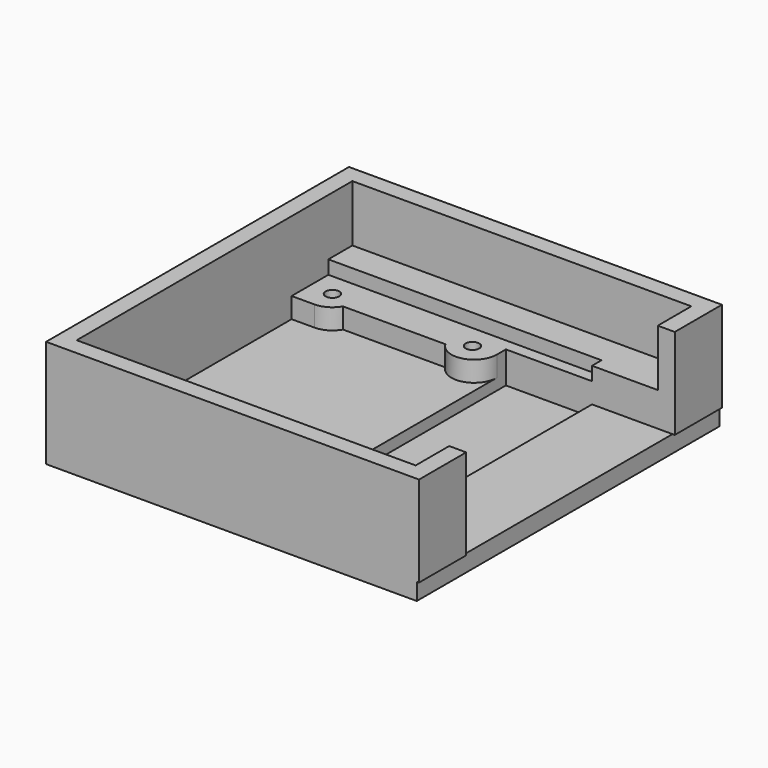
from build123d import *

# Parameters (mm, degrees)
RECTANGLE077_W         = 0.2
RECTANGLE077_H         = 33.4
EXTRUDE207_DEPTH       = 1.5
RECTANGLE072_W         = 32.9
RECTANGLE072_H         = 33.4
EXTRUDE172_DEPTH       = 0.5
CIRCLE037_R            = 0.6
EXTRUDE166_DEPTH       = 2.8
CIRCLE036_R            = 0.6
EXTRUDE163_DEPTH       = 2.8
CIRCLE038_R            = 0.6
EXTRUDE165_DEPTH       = 2.8
CIRCLE040_R            = 0.65
EXTRUDE167_DEPTH       = 10
CIRCLE018_R            = 2
EXTRUDE155_DEPTH       = 2.1
RECTANGLE065_W         = 2
RECTANGLE065_H         = 1
EXTRUDE156_DEPTH       = 2.1
RECTANGLE064_W         = 2
RECTANGLE064_H         = 1
EXTRUDE153_DEPTH       = 2.1
CIRCLE019_R            = 2
EXTRUDE152_DEPTH       = 2.1
RECTANGLE066_W         = 1
RECTANGLE066_H         = 1
EXTRUDE150_DEPTH       = 2.1
CIRCLE020_R            = 2
EXTRUDE149_DEPTH       = 2.1
RECTANGLE070_W         = 7.6
RECTANGLE070_H         = 23
EXTRUDE162_DEPTH       = 2.8
RECTANGLE061_W         = 24.1
RECTANGLE061_H         = 25.1
EXTRUDE117_DEPTH       = 6.2
RECTANGLE063_W         = 1.5
RECTANGLE063_H         = 23
EXTRUDE128_DEPTH       = 8
RECTANGLE060_W         = 14.4
RECTANGLE060_H         = 23
EXTRUDE141_DEPTH       = 8
RECTANGLE059_W         = 15.5
RECTANGLE059_H         = 19
EXTRUDE140_DEPTH       = 8
RECTANGLE062_W         = 29.9
RECTANGLE062_H         = 30.4
EXTRUDE116_DEPTH       = 5
RECTANGLE053_W         = 32.9
RECTANGLE053_H         = 33.4
EXTRUDE107_DEPTH       = 9
RECTANGLE067_W         = 1
RECTANGLE067_H         = 1
EXTRUDE159_DEPTH       = 2.1
CIRCLE021_R            = 2
EXTRUDE158_DEPTH       = 2.1
CUT078_PLACEMENT_ANGLE = 180


with BuildPart() as extrude207:
    # Rectangle077 → Extrude207 (new body)
    with BuildSketch(Plane(origin=(50.534308, -80.765974, -19.3), x_dir=(1, 0, 0), z_dir=(0, 0, 1))):
        with Locations((0.1, 16.7)):
            Rectangle(RECTANGLE077_W, RECTANGLE077_H)
    extrude(amount=EXTRUDE207_DEPTH)


with BuildPart() as extrude172:
    # Rectangle072 (on Cut) → Extrude172 (new body)
    with BuildSketch(Plane(origin=(17.834308, -47.365974, -18.8), x_dir=(1, 0, 0), z_dir=(0, 0, -1))):
        with Locations((16.45, 16.7)):
            Rectangle(RECTANGLE072_W, RECTANGLE072_H)
    extrude(amount=EXTRUDE172_DEPTH)


with BuildPart() as extrude166:
    # Circle037 → Extrude166 (new body)
    with BuildSketch(Plane(origin=(67.748726, -53.60327, -3.6), x_dir=(1, 0, 0), z_dir=(0, 0, -1))):
        Circle(CIRCLE037_R)
    extrude(amount=-EXTRUDE166_DEPTH)


with BuildPart() as extrude163:
    # Circle036 → Extrude163 (new body)
    with BuildSketch(Plane(origin=(80.134308, -53.565974, -3.6), x_dir=(1, 0, 0), z_dir=(0, 0, 1))):
        Circle(CIRCLE036_R)
    extrude(amount=EXTRUDE163_DEPTH)


with BuildPart() as extrude165:
    # Circle038 → Extrude165 (new body)
    with BuildSketch(Plane(origin=(67.634308, -74.565974, -3.6), x_dir=(1, 0, 0), z_dir=(0, 0, 1))):
        Circle(CIRCLE038_R)
    extrude(amount=EXTRUDE165_DEPTH)


with BuildPart() as extrude167:
    # Circle040 (on Cut) → Extrude167 (new body)
    with BuildSketch(Plane(origin=(80.134308, -74.565974, -3.6), x_dir=(1, 0, 0), z_dir=(0, 0, -1))):
        Circle(CIRCLE040_R)
    extrude(amount=-EXTRUDE167_DEPTH)


with BuildPart() as extrude155:
    # Circle018 → Extrude155 (new body)
    with BuildSketch(Plane(origin=(80.134308, -53.565974, -3.6), x_dir=(1, 0, 0), z_dir=(0, 0, 1))):
        Circle(CIRCLE018_R)
    extrude(amount=EXTRUDE155_DEPTH)


with BuildPart() as fusion026:
    # Rectangle065 → Extrude156 (new body)
    with BuildSketch(Plane(origin=(80.134308, -55.565974, -3.6), x_dir=(1, 0, 0), z_dir=(0, 0, 1))):
        with Locations((1, 0.5)):
            Rectangle(RECTANGLE065_W, RECTANGLE065_H)
    extrude(amount=EXTRUDE156_DEPTH)

    # Fusion026: union Extrude155
    add(extrude155.part)


with BuildPart() as extrude153:
    # Rectangle064 → Extrude153 (new body)
    with BuildSketch(Plane(origin=(80.134308, -73.565974, -3.6), x_dir=(1, 0, 0), z_dir=(0, 0, 1))):
        with Locations((1, 0.5)):
            Rectangle(RECTANGLE064_W, RECTANGLE064_H)
    extrude(amount=EXTRUDE153_DEPTH)


with BuildPart() as fusion032:
    # Circle019 → Extrude152 (new body)
    with BuildSketch(Plane(origin=(80.134308, -74.565974, -3.6), x_dir=(1, 0, 0), z_dir=(0, 0, 1))):
        Circle(CIRCLE019_R)
    extrude(amount=EXTRUDE152_DEPTH)

    # Fusion032: union Extrude153
    add(extrude153.part)


with BuildPart() as extrude150:
    # Rectangle066 → Extrude150 (new body)
    with BuildSketch(Plane(origin=(65.634308, -75.565974, -3.6), x_dir=(1, 0, 0), z_dir=(0, 0, 1))):
        with Locations((0.5, 0.5)):
            Rectangle(RECTANGLE066_W, RECTANGLE066_H)
    extrude(amount=EXTRUDE150_DEPTH)


with BuildPart() as fusion024:
    # Circle020 → Extrude149 (new body)
    with BuildSketch(Plane(origin=(67.634308, -74.565974, -3.6), x_dir=(1, 0, 0), z_dir=(0, 0, 1))):
        Circle(CIRCLE020_R)
    extrude(amount=EXTRUDE149_DEPTH)

    # Fusion024: union Extrude150
    add(extrude150.part)


with BuildPart() as extrude162:
    # Rectangle070 → Extrude162 (new body)
    with BuildSketch(Plane(origin=(58.034308, -75.565974, -3.6), x_dir=(1, 0, 0), z_dir=(0, 0, 1))):
        with Locations((3.8, 11.5)):
            Rectangle(RECTANGLE070_W, RECTANGLE070_H)
    extrude(amount=EXTRUDE162_DEPTH)


with BuildPart() as extrude117:
    # Rectangle061 → Extrude117 (new body)
    with BuildSketch(Plane(origin=(58.034308, -51.515974, -9.8), x_dir=(1, 0, 0), z_dir=(0, 0, -1))):
        with Locations((12.05, 12.55)):
            Rectangle(RECTANGLE061_W, RECTANGLE061_H)
    extrude(amount=-EXTRUDE117_DEPTH)


with BuildPart() as extrude128:
    # Rectangle063 → Extrude128 (new body)
    with BuildSketch(Plane(origin=(50.734308, -75.565974, -9.8), x_dir=(1, 0, 0), z_dir=(0, 0, 1))):
        with Locations((0.75, 11.5)):
            Rectangle(RECTANGLE063_W, RECTANGLE063_H)
    extrude(amount=EXTRUDE128_DEPTH)


with BuildPart() as extrude141:
    # Rectangle060 → Extrude141 (new body)
    with BuildSketch(Plane(origin=(52.234308, -52.565974, -9.8), x_dir=(1, 0, 0), z_dir=(0, 0, -1))):
        with Locations((7.2, 11.5)):
            Rectangle(RECTANGLE060_W, RECTANGLE060_H)
    extrude(amount=-EXTRUDE141_DEPTH)


with BuildPart() as extrude140:
    # Rectangle059 → Extrude140 (new body)
    with BuildSketch(Plane(origin=(66.634308, -54.565974, -9.8), x_dir=(1, 0, 0), z_dir=(0, 0, -1))):
        with Locations((7.75, 9.5)):
            Rectangle(RECTANGLE059_W, RECTANGLE059_H)
    extrude(amount=-EXTRUDE140_DEPTH)


with BuildPart() as extrude116:
    # Rectangle062 → Extrude116 (new body)
    with BuildSketch(Plane(origin=(52.234308, -48.865974, -9.8), x_dir=(1, 0, 0), z_dir=(0, 0, -1))):
        with Locations((14.95, 15.2)):
            Rectangle(RECTANGLE062_W, RECTANGLE062_H)
    extrude(amount=-EXTRUDE116_DEPTH)


with BuildPart() as cut074:
    # Rectangle053 → Extrude107 (new body)
    with BuildSketch(Plane(origin=(50.734308, -47.365974, -9.8), x_dir=(1, 0, 0), z_dir=(0, 0, -1))):
        with Locations((16.45, 16.7)):
            Rectangle(RECTANGLE053_W, RECTANGLE053_H)
    extrude(amount=-EXTRUDE107_DEPTH)

    # Cut046: cut Extrude116
    add(extrude116.part, mode=Mode.SUBTRACT)

    # Cut060: cut Extrude140
    add(extrude140.part, mode=Mode.SUBTRACT)

    # Cut061: cut Extrude141
    add(extrude141.part, mode=Mode.SUBTRACT)

    # Cut062: cut Extrude128
    add(extrude128.part, mode=Mode.SUBTRACT)

    # Cut063: cut Extrude117
    add(extrude117.part, mode=Mode.SUBTRACT)

    # Cut074: cut Extrude162
    add(extrude162.part, mode=Mode.SUBTRACT)


with BuildPart() as extrude159:
    # Rectangle067 → Extrude159 (new body)
    with BuildSketch(Plane(origin=(65.634308, -53.565974, -3.6), x_dir=(1, 0, 0), z_dir=(0, 0, 1))):
        with Locations((0.5, 0.5)):
            Rectangle(RECTANGLE067_W, RECTANGLE067_H)
    extrude(amount=EXTRUDE159_DEPTH)


with BuildPart() as cut_lens_capsule:
    # Circle021 → Extrude158 (new body)
    with BuildSketch(Plane(origin=(67.634308, -53.565974, -3.6), x_dir=(1, 0, 0), z_dir=(0, 0, 1))):
        Circle(CIRCLE021_R)
    extrude(amount=EXTRUDE158_DEPTH)

    # Fusion025: union Extrude159
    add(extrude159.part)

    # Fusion033: union Fusion026, Fusion032, Fusion024, Cut074
    add(fusion026.part)
    add(fusion032.part)
    add(fusion024.part)
    add(cut074.part)

    # Cut075: cut Extrude167
    add(extrude167.part, mode=Mode.SUBTRACT)

    # Cut076: cut Extrude165
    add(extrude165.part, mode=Mode.SUBTRACT)

    # Cut077: cut Extrude163
    add(extrude163.part, mode=Mode.SUBTRACT)

    # Cut078: cut Extrude166
    add(extrude166.part, mode=Mode.SUBTRACT)


with BuildPart() as cut_lens_capsule_1:
    # Cut078 placement: moved
    add(cut_lens_capsule.part.moved(Location((101.468615, 0, -19.6))).rotate(Axis((101.468615, 0, -19.6), (0, 1, 0)), CUT078_PLACEMENT_ANGLE))

    # Fusion035: union Extrude172
    add(extrude172.part)

    # Cut108: cut Extrude207
    add(extrude207.part, mode=Mode.SUBTRACT)


solid = cut_lens_capsule_1.part
